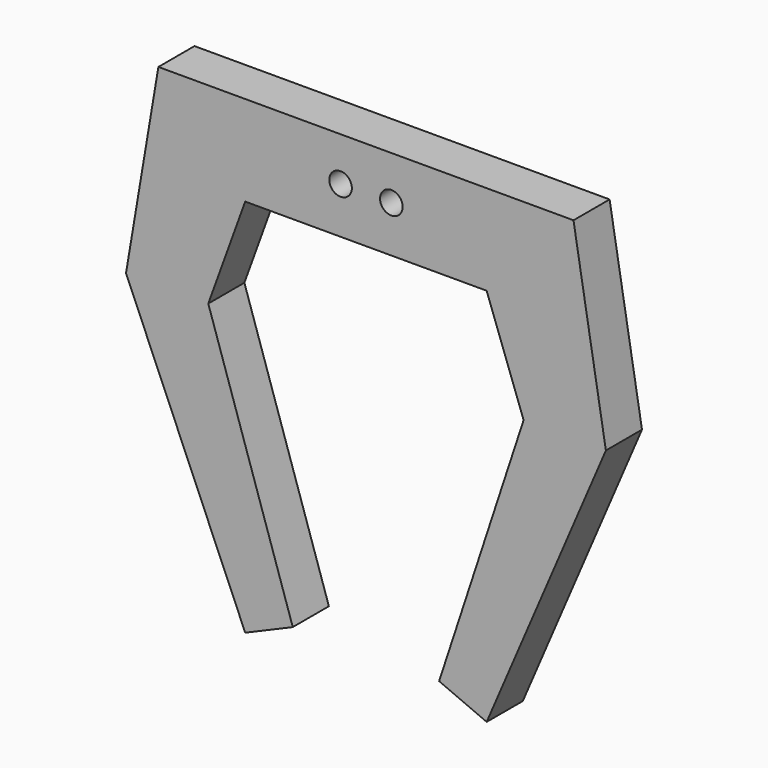
from build123d import *

# Parameters (mm, degrees)
F1_DEPTH = 6.35
F3_D     = 3.175


with BuildPart() as f1:
    # F0 (on Front) → F1 (new body)
    with BuildSketch(Plane.XZ):
        Polygon((29.197415, 27.026769), (0, 27.026769), (0, 14.326769), (16.983994, 14.326769), (22.180271, 0), (10.29463, -36.19864), (16.983994, -39.069609), (33.752048, 0), align=None)
    extrude(amount=F1_DEPTH)

    # F3 (through all)
    with Locations(Plane.XZ.offset(6.35)):
        with Locations((3.570083, 20.865042)):
            Hole(F3_D / 2)

    # F4: F1 across plane


with BuildPart() as f1_1:
    add(f1.part)
    add(f1.part.mirror(Plane.YZ))


solid = f1_1.part
